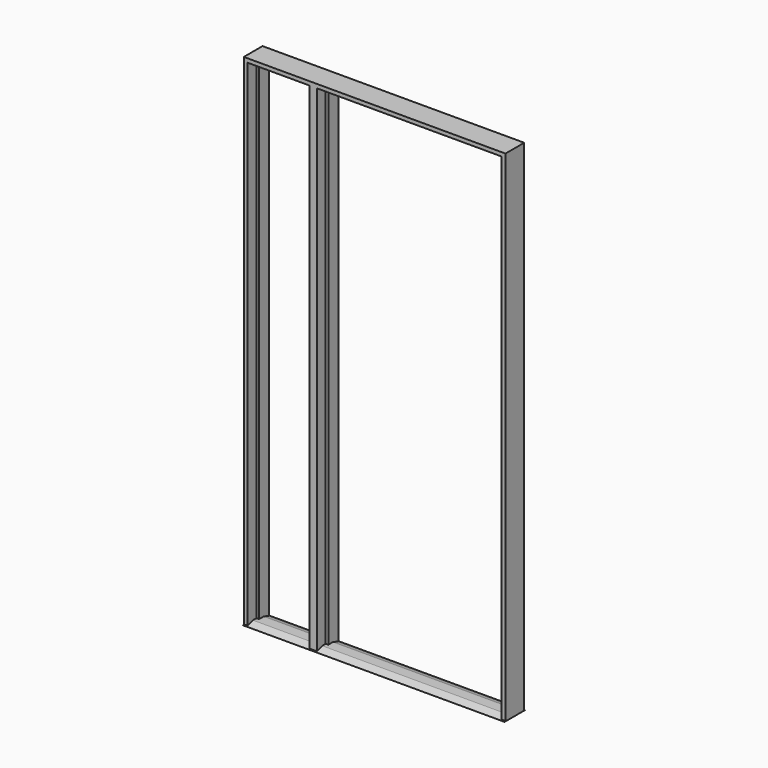
from build123d import *

# Parameters (mm, degrees)
F3_DEPTH      = 61.9125
F5_DEPTH      = 50.8
F5_DEPTH_BACK = 3.175
F7_DEPTH      = 1294.60625


with BuildPart() as f3:
    # F2 (on offset) → F3 (new body)
    with BuildSketch(Plane.XZ.offset(-3.175)):
        Polygon((0, 2454.275), (0, 0), (19.05, 0), (31.75, 0), (31.75, 2441.575), (311.15, 2441.575), (311.15, 0), (323.85, 0), (342.9, 0), (361.95, 0), (374.65, 0), (374.65, 2441.575), (1262.85625, 2441.575), (1262.85625, 0), (1275.55625, 0), (1294.60625, 0), (1294.60625, 2454.275), (1294.60625, 2473.325), (0, 2473.325), align=None)
    extrude(amount=-F3_DEPTH)

    # F4 (on Front) → F5 (join, two sides)
    with BuildSketch(Plane.XZ) as f5_sk:
        Polygon((0, 2454.275), (0, 0), (19.05, 0), (19.05, 2441.575), (19.05, 2454.275), (323.85, 2454.275), (323.85, 0), (342.9, 0), (361.95, 0), (361.95, 2454.275), (1275.55625, 2454.275), (1275.55625, 2441.575), (1275.55625, 0), (1294.60625, 0), (1294.60625, 2454.275), (1294.60625, 2473.325), (0, 2473.325), align=None)
    extrude(amount=F5_DEPTH)
    extrude(f5_sk.sketch, amount=-F5_DEPTH_BACK)

    # F6 (on Right) → F7 (join, through all)
    with BuildSketch(Plane.YZ):
        Polygon((32.54375, 12.7), (-18.25625, 12.7), (-56.35625, 0), (-50.8, 0), (7.14375, 0), (65.0875, 0), (70.64375, 0), align=None)
    extrude(amount=F7_DEPTH)


solid = f3.part
